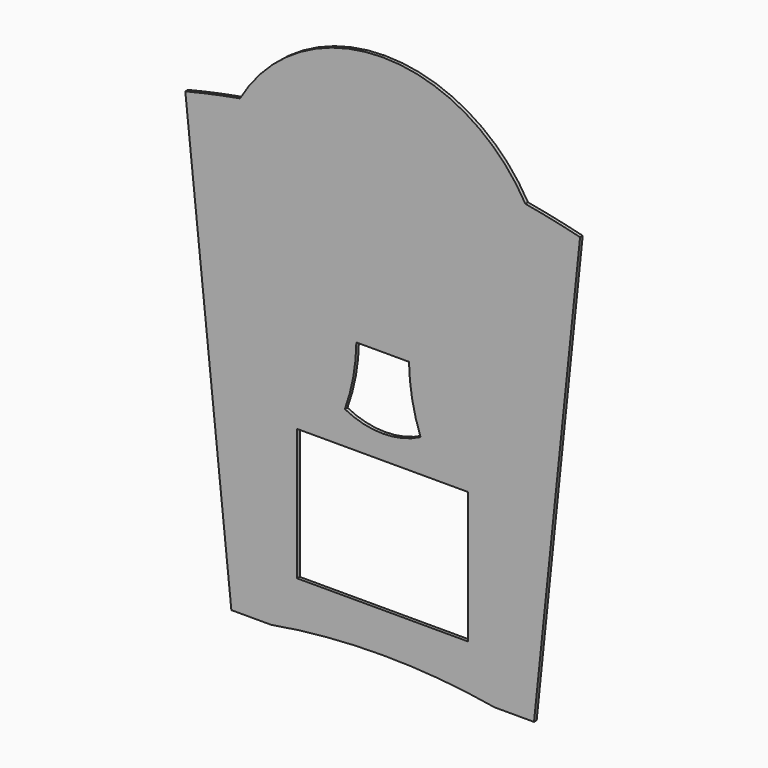
from build123d import *

# Parameters (mm, degrees)
F1_DEPTH = 1
F2_W     = 52
F2_H     = 40
F3_DEPTH = 1.001


with BuildPart() as f1:
    # F0 (on Front) → F1 (new body)
    with BuildSketch(Plane.XZ):
        with BuildLine():
            ThreePointArc((43.37225, 54.876654), (25.061597, 73.265649), (0, 80))
            ThreePointArc((0, 80), (-25.061597, 73.265649), (-43.37225, 54.876654))
            ThreePointArc((-43.37225, 54.876654), (-51.716009, 53.260127), (-60, 51.360924))
            Line((-60, 51.360924), (-46, -82.911188))
            Line((-46, -82.911188), (-34, -82.911188))
            ThreePointArc((-34, -82.911188), (-17.062202, -80.729126), (0, -80))
            ThreePointArc((0, -80), (17.062202, -80.729126), (34, -82.911188))
            Line((34, -82.911188), (46, -82.911188))
            Line((46, -82.911188), (60, 51.360924))
            ThreePointArc((60, 51.360924), (51.716009, 53.260127), (43.37225, 54.876654))
        make_face()
    extrude(amount=F1_DEPTH)

    # F2 (on Front) → F3 (cut, through all)
    with BuildSketch(Plane.XZ):
        with BuildLine():
            Line((0, 1.088812), (-8, 1.088812))
            ThreePointArc((-8, 1.088812), (-8.953329, -8.557943), (-11.5, -17.911188))
            ThreePointArc((-11.5, -17.911188), (-5.917981, -20.00111), (0, -20.711188))
            ThreePointArc((0, -20.711188), (5.917981, -20.00111), (11.5, -17.911188))
            ThreePointArc((11.5, -17.911188), (8.953329, -8.557943), (8, 1.088812))
            Line((8, 1.088812), (0, 1.088812))
        make_face()
        with Locations((0, -47.911188)):
            Rectangle(F2_W, F2_H)
    extrude(amount=F3_DEPTH, mode=Mode.SUBTRACT)


solid = f1.part
